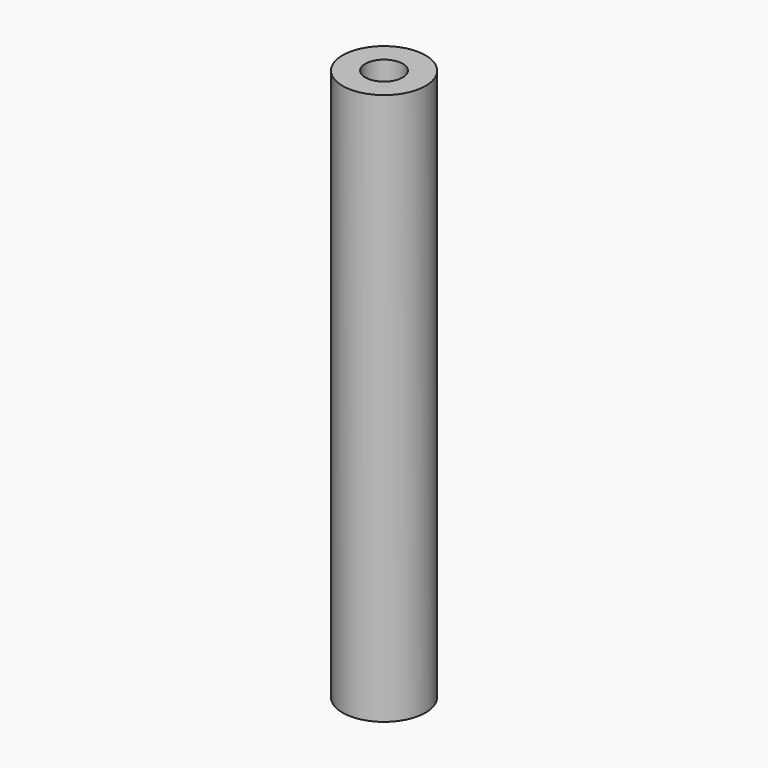
from build123d import *

# Parameters (mm, degrees)
CYLINDER001_R     = 0.9
CYLINDER001_DEPTH = 26.6
CYLINDER_R        = 2
CYLINDER_DEPTH    = 26.6


with BuildPart() as zylinder001:
    # Cylinder001 → Cylinder001 (new body)
    with BuildSketch(Plane.XY):
        Circle(CYLINDER001_R)
    extrude(amount=CYLINDER001_DEPTH)


with BuildPart() as cut:
    # Cylinder → Cylinder (new body)
    with BuildSketch(Plane.XY):
        Circle(CYLINDER_R)
    extrude(amount=CYLINDER_DEPTH)

    # Cut: cut Zylinder001
    add(zylinder001.part, mode=Mode.SUBTRACT)


solid = cut.part
